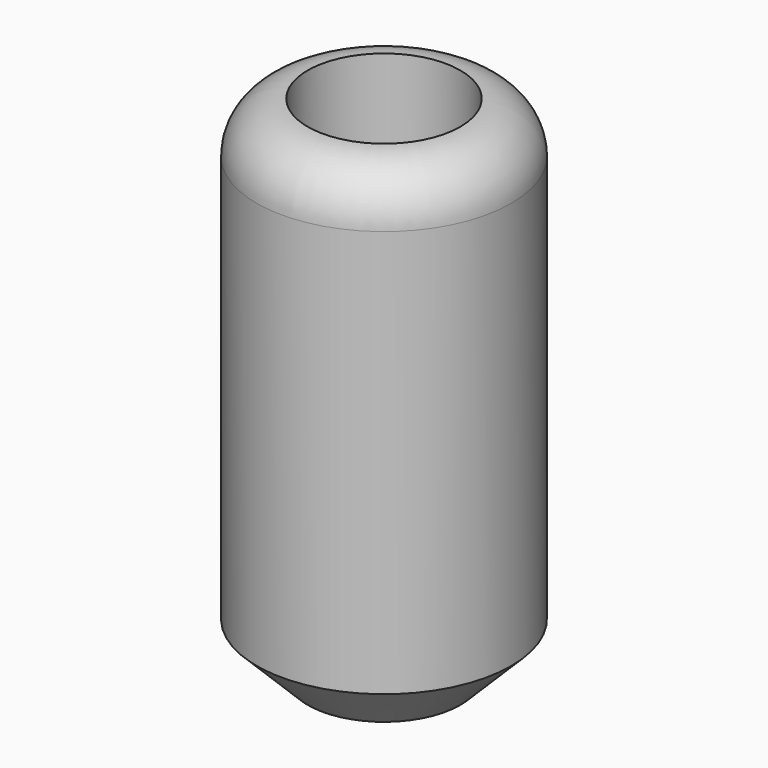
from build123d import *

# Parameters (mm, degrees)
F0_R      = 12.7
F1_DEPTH  = 50.8
F2_R      = 5.08
F3_SIZE   = 5.08
F1_FACE_R = 7.62
F4_DEPTH  = 25.4


with BuildPart() as f1:
    # F0 (on Top) → F1 (new body)
    with BuildSketch(Plane.XY):
        Circle(F0_R)
    extrude(amount=F1_DEPTH)

    # F2
    f2_edges = [f1.edges().sort_by_distance(p)[0] for p in [
        (-12.7, 0, 50.8),
    ]]
    fillet(f2_edges, radius=F2_R)

    # F3
    f3_edges = [f1.edges().sort_by_distance(p)[0] for p in [
        (-12.7, 0, 0),
    ]]
    chamfer(f3_edges, length=F3_SIZE)

    # F1_face (on face) → F4 (cut)
    with BuildSketch(Plane.XY.offset(50.8)):
        Circle(F1_FACE_R)
    extrude(amount=-F4_DEPTH, mode=Mode.SUBTRACT)


solid = f1.part
